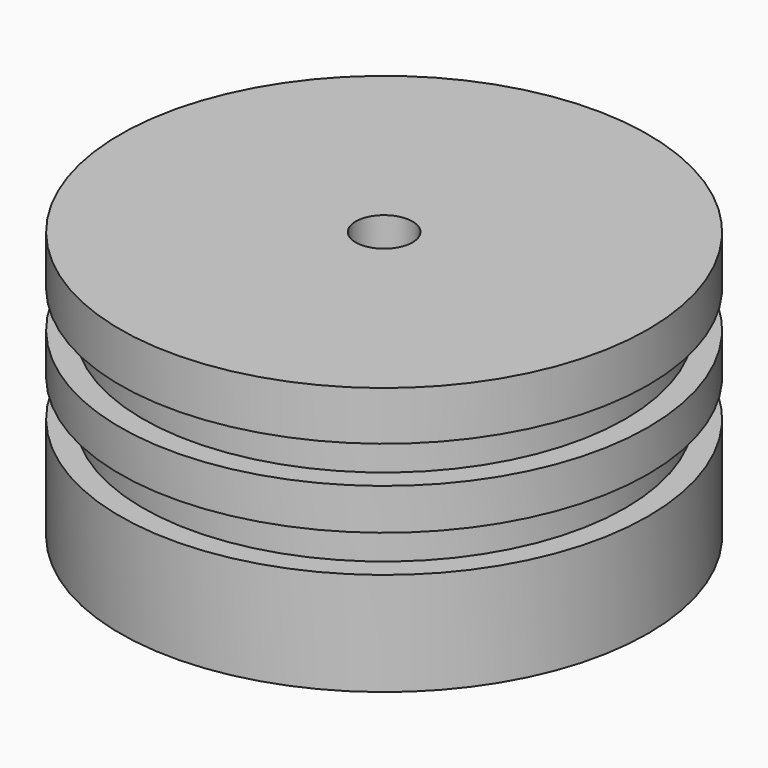
from build123d import *

# Parameters (mm, degrees)
F0_R      = 16.256
F1_DEPTH  = 6.35
F2_R      = 14.859
F3_DEPTH  = 16.002
F5_R      = 16.256
F6_DEPTH  = 2.54
F8_R      = 16.256
F9_DEPTH  = 3.0226
F10_R     = 1.75
F11_DEPTH = 42.672
F12_R     = 1.75
F13_DEPTH = 37.084
F14_R     = 10.75
F15_DEPTH = 5.334


with BuildPart() as f1:
    # F0 (on Top) → F1 (new body)
    with BuildSketch(Plane.XY):
        Circle(F0_R)
    extrude(amount=F1_DEPTH)

    # F2 (on Top) → F3 (join)
    with BuildSketch(Plane.XY):
        Circle(F2_R)
    extrude(amount=F3_DEPTH)

    # F5 (on offset) → F6 (join)
    with BuildSketch(Plane.XY.offset(8.636)):
        Circle(F5_R)
    extrude(amount=F6_DEPTH)

    # F8 (on offset) → F9 (join)
    with BuildSketch(Plane.XY.offset(13.462)):
        Circle(F8_R)
    extrude(amount=F9_DEPTH)

    # F10 (on offset) → F11 (cut)
    with BuildSketch(Plane.XY.offset(13.462)):
        Circle(F10_R)
    extrude(amount=F11_DEPTH, mode=Mode.SUBTRACT)

    # F12 (on Top) → F13 (cut)
    with BuildSketch(Plane.XY):
        Circle(F12_R)
    extrude(amount=F13_DEPTH, mode=Mode.SUBTRACT)

    # F14 (on Top) → F15 (cut)
    with BuildSketch(Plane.XY):
        Circle(F14_R)
    extrude(amount=F15_DEPTH, mode=Mode.SUBTRACT)


solid = f1.part
